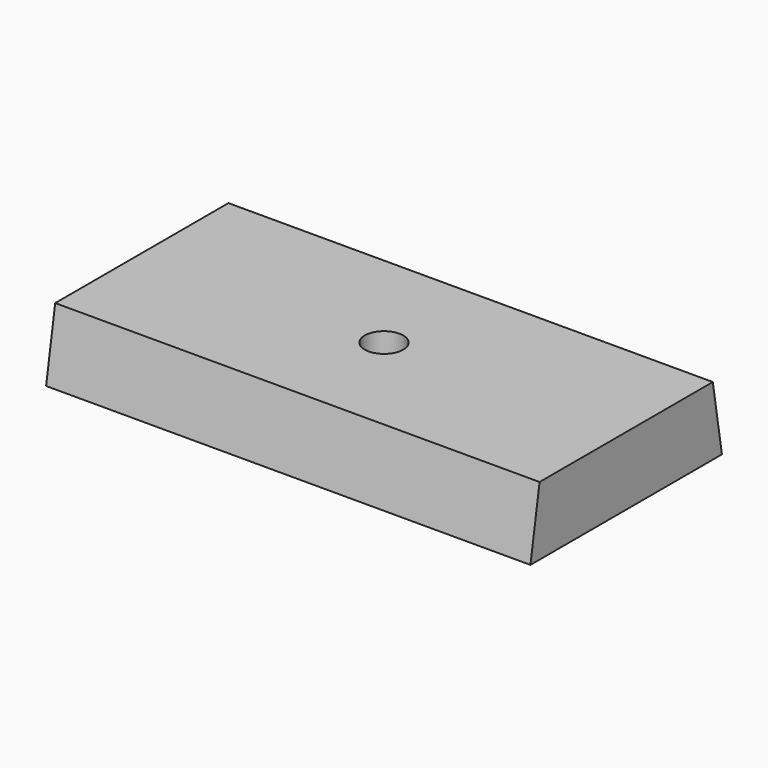
from build123d import *

# Parameters (mm, degrees)
F0_W           = 38
F0_H           = 12
F1_DEPTH       = 85
F3_D           = 6.7564
F3_CBORE_D     = 15
F3_CBORE_DEPTH = 5


with BuildPart() as f1:
    # F0 (on Right) → F1 (new body)
    with BuildSketch(Plane.YZ):
        Rectangle(F0_W, F0_H)
        Polygon((21, -6), (19, 6), (19, -6), align=None)
        Polygon((-19, -6), (-19, 6), (-21, -6), align=None)
    extrude(amount=F1_DEPTH)

    # F3 (through all)
    with Locations(Plane(origin=(0, 0, -6), x_dir=(1, 0, 0), z_dir=(0, 0, -1))):
        with Locations((42.5, 0)):
            CounterBoreHole(F3_D / 2, F3_CBORE_D / 2, F3_CBORE_DEPTH)


solid = f1.part
